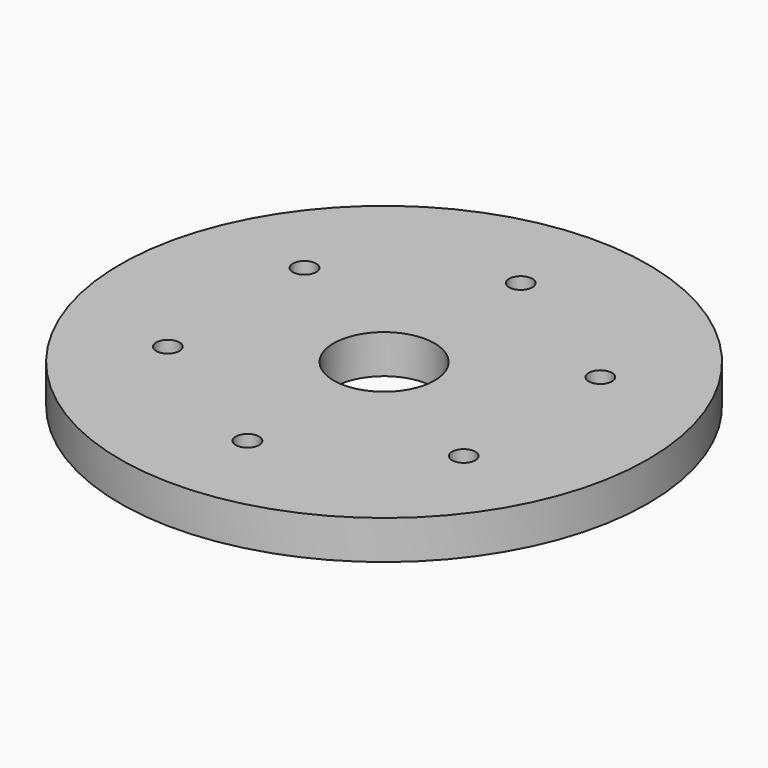
from build123d import *

# Parameters (mm, degrees)
SKETCH_R           = 34
SKETCH_R_2         = 6.5
PAD_DEPTH          = 5
SKETCH001_R        = 1.5
POCKET_DEPTH       = 10
POLARPATTERN_COUNT = 6


with BuildPart() as part:
    # Sketch → Pad (new body)
    with BuildSketch(Plane.XY):
        Circle(SKETCH_R)
        Circle(SKETCH_R_2, mode=Mode.SUBTRACT)
    extrude(amount=PAD_DEPTH)

    # Sketch001 (on Face4 of Pad) → Pocket (cut)
    with BuildSketch(Plane.XY.offset(5)):
        with Locations((0, 22)):
            Circle(SKETCH001_R)
    pocket = extrude(amount=-POCKET_DEPTH, mode=Mode.SUBTRACT)

    # PolarPattern: Pocket ×6 about axis
    polarpattern_axis = Axis((0, 0, 5), (0, 0, 1))
    for i in range(1, POLARPATTERN_COUNT):
        add(pocket.rotate(polarpattern_axis, i * 360 / POLARPATTERN_COUNT), mode=Mode.SUBTRACT)


solid = part.part
